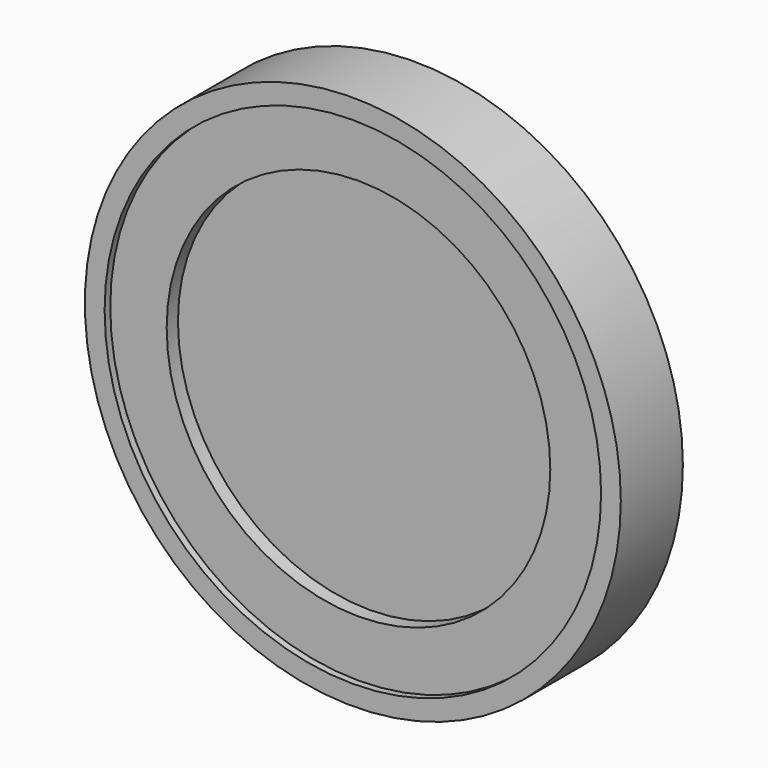
from build123d import *

# Parameters (mm, degrees)
F0_R      = 190
F1_DEPTH  = 55
F2_R      = 45
F3_DEPTH  = 20
F4_R      = 176
F4_R_2    = 136
F5_DEPTH  = 5
F5_FACE_R = 136
F6_DEPTH  = 15


with BuildPart() as f1:
    # F0 (on Front) → F1 (new body)
    with BuildSketch(Plane.XZ):
        Circle(F0_R)
    extrude(amount=F1_DEPTH)

    # F2 (on face) → F3 (cut)
    with BuildSketch(Plane(origin=(0, 0, 0), x_dir=(-1, 0, 0), z_dir=(0, 1, 0))):
        Circle(F2_R)
    extrude(amount=-F3_DEPTH, mode=Mode.SUBTRACT)

    # F4 (on face) → F5 (cut)
    with BuildSketch(Plane.XZ.offset(55)):
        Circle(F4_R)
        Circle(F4_R_2, mode=Mode.SUBTRACT)
    extrude(amount=-F5_DEPTH, mode=Mode.SUBTRACT)

    # F5_face (on face) → F6 (cut)
    with BuildSketch(Plane.XZ.offset(55)):
        Circle(F5_FACE_R)
    extrude(amount=-F6_DEPTH, mode=Mode.SUBTRACT)


solid = f1.part
